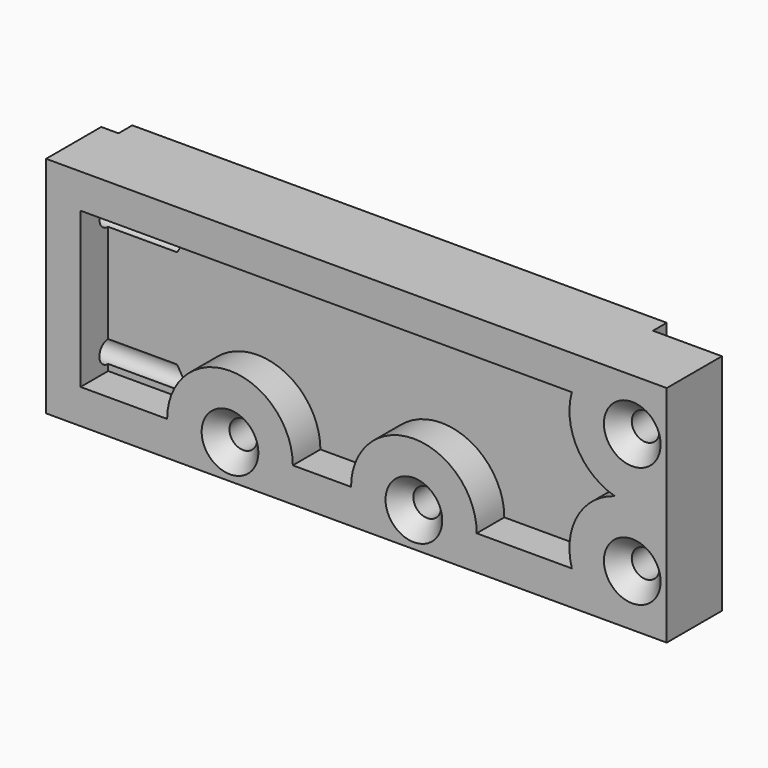
from build123d import *

# Parameters (mm, degrees)
F0_W           = 114.3
F0_H           = 41.275
F1_DEPTH       = 12.7
F3_D           = 5.1054
F3_CSINK_D     = 10.4394
F3_CSINK_ANGLE = 82
F5_D           = 4.0386
F5_DEPTH       = 19.05
F5_TIP         = 1.213317848
F6_W           = 98.425
F6_H           = 3.175
F7_DEPTH       = 3.175
F9_DEPTH       = 6.35


with BuildPart() as f1:
    # F0 (on Front) → F1 (new body)
    with BuildSketch(Plane.XZ):
        Rectangle(F0_W, F0_H)
    extrude(amount=F1_DEPTH)

    # F3 (through all)
    with Locations(Plane.XZ.offset(12.7)):
        with Locations((50.8, 11.1125), (50.8, -11.1125), (-23.2833333333, -14.2875), (10.5833333333, -14.2875)):
            CounterSinkHole(F3_D / 2, F3_CSINK_D / 2, counter_sink_angle=F3_CSINK_ANGLE)

    # F5
    with Locations(Plane(origin=(-57.15, 0, 0), x_dir=(0, -1, 0), z_dir=(-1, 0, 0))):
        with Locations((6.35, 11.1125), (6.35, -11.1125)):
            Hole(F5_D / 2, depth=F5_DEPTH)
            with Locations((0, 0, -(F5_DEPTH + F5_TIP / 2))):  # 118° drill point
                Cone(0, F5_D / 2, F5_TIP, mode=Mode.SUBTRACT)

    # F6 (on face) → F7 (join)
    with BuildSketch(Plane(origin=(0, 0, 0), x_dir=(-1, 0, 0), z_dir=(0, 1, 0))):
        with Locations((4.7625, 19.05)):
            Rectangle(F6_W, F6_H)
    extrude(amount=F7_DEPTH)

    # F8 (on face) → F9 (cut)
    with BuildSketch(Plane.XZ.offset(12.7)):
        with BuildLine():
            Line((39.6744738062, 14.2875), (-50.8, 14.2875))
            Line((-50.8, 14.2875), (-50.8, -14.2875))
            Line((-50.8, -14.2875), (-34.8530333333, -14.2875))
            ThreePointArc((-34.8530333333, -14.2875), (-23.2833333333, -2.7178), (-11.7136333333, -14.2875))
            Line((-11.7136333333, -14.2875), (-0.9863666667, -14.2875))
            ThreePointArc((-0.9863666667, -14.2875), (10.5833333333, -2.7178), (22.1530333333, -14.2875))
            Line((22.1530333333, -14.2875), (39.6744738062, -14.2875))
            ThreePointArc((39.6744738062, -14.2875), (40.6765711012, -5.5112371584), (47.5797046968, 0))
            ThreePointArc((47.5797046968, 0), (40.6765711012, 5.5112371584), (39.6744738062, 14.2875))
        make_face()
    extrude(amount=-F9_DEPTH, mode=Mode.SUBTRACT)


solid = f1.part
